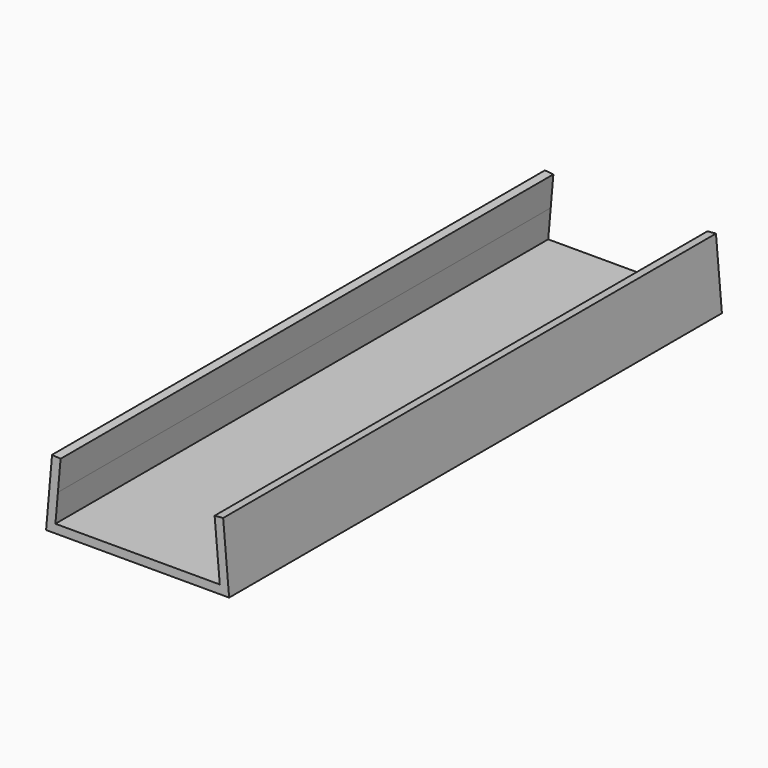
from build123d import *

# Parameters (mm, degrees)
F1_DEPTH = 914.4


with BuildPart() as f1:
    # F0 (on Front) → F1 (new body)
    with BuildSketch(Plane.XZ):
        with BuildLine():
            Line((-114.3483273342, -1.1068779329), (-127, 0))
            ThreePointArc((-127, 0), (-124.8046262141, -23.5118114054), (-118.2944051093, -46.2107532923))
            Line((-118.2944051093, -46.2107532923), (-114.3483273342, -1.1068779329))
        make_face()
        with BuildLine():
            ThreePointArc((-118.2944051093, -46.2107532923), (-124.8046262141, -23.5118114054), (-127, 0))
            Line((-127, 0), (-135.8550234632, -101.2133813261))
            Line((-135.8550234632, -101.2133813261), (-76.7127853785, -101.2133813261))
            ThreePointArc((-76.7127853785, -101.2133813261), (-84.1331171102, -95.134739214), (-91.0734940925, -88.5133813261))
            Line((-91.0734940925, -88.5133813261), (-121.9954054996, -88.5133813261))
            Line((-121.9954054996, -88.5133813261), (-118.2944051093, -46.2107532923))
        make_face()
        with BuildLine():
            ThreePointArc((76.7127853785, -101.2133813261), (84.1331171102, -95.134739214), (91.0734940925, -88.5133813261))
            Line((91.0734940925, -88.5133813261), (0, -88.5133813261))
            Line((0, -88.5133813261), (-91.0734940925, -88.5133813261))
            ThreePointArc((-91.0734940925, -88.5133813261), (-84.1331171102, -95.134739214), (-76.7127853785, -101.2133813261))
            Line((-76.7127853785, -101.2133813261), (0, -101.2133813261))
            Line((0, -101.2133813261), (76.7127853785, -101.2133813261))
        make_face()
        with BuildLine():
            Line((135.8550234632, -101.2133813261), (127, 0))
            ThreePointArc((127, 0), (124.8046262141, -23.5118114054), (118.2944051093, -46.2107532923))
            Line((118.2944051093, -46.2107532923), (121.9954054996, -88.5133813261))
            Line((121.9954054996, -88.5133813261), (91.0734940925, -88.5133813261))
            ThreePointArc((91.0734940925, -88.5133813261), (84.1331171102, -95.134739214), (76.7127853785, -101.2133813261))
            Line((76.7127853785, -101.2133813261), (135.8550234632, -101.2133813261))
        make_face()
        with BuildLine():
            ThreePointArc((118.2944051093, -46.2107532923), (124.8046262141, -23.5118114054), (127, 0))
            Line((127, 0), (114.3483273342, -1.1068779329))
            Line((114.3483273342, -1.1068779329), (118.2944051093, -46.2107532923))
        make_face()
    extrude(amount=F1_DEPTH)


solid = f1.part
